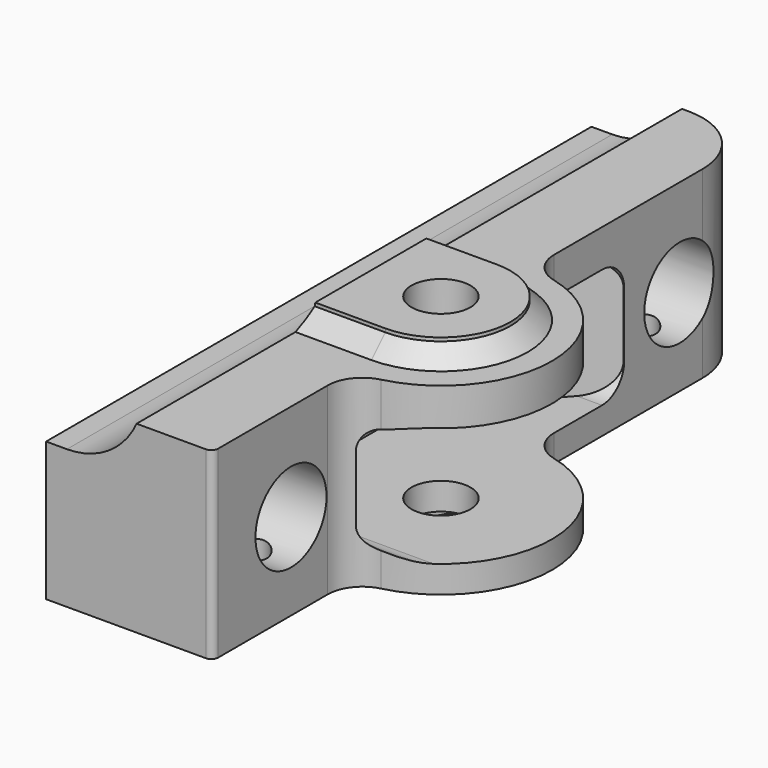
from build123d import *

# Parameters (mm, degrees)
SKETCH_R          = 4.25
PAD_DEPTH         = 28.5
PAD_DEPTH_BACK    = 5
FILLET_R          = 5
SKETCH002_R       = 6.4
POCKET_DEPTH      = 24.001
POCKET_DEPTH_BACK = -16.001
POCKET001_DEPTH   = 3
POCKET002_DEPTH   = 4
POCKET003_DEPTH   = 98.201
POCKET004_DEPTH   = 4
POCKET005_DEPTH   = 16
SKETCH028_R       = 22
POCKET006_DEPTH   = 25
SKETCH031_R       = 2.5
POCKET007_DEPTH   = 9
PAD001_DEPTH      = 17.2
SKETCH034_W       = 50
SKETCH034_H       = 25
POCKET008_DEPTH   = 2
SKETCH036_R       = 4.4
POCKET009_DEPTH   = 1.5
CHAMFER_SIZE      = 1.9
CHAMFER001_SIZE   = 2.5


with BuildPart() as part:
    # Sketch → Pad (new body, two sides)
    with BuildSketch(Plane.XY) as pad_sk:
        with BuildLine():
            ThreePointArc((0, -19), (16, -3), (0, 13))
            Line((0, 44.1), (0, 13))
            ThreePointArc((0, 44.1), (-2.928932, 51.171068), (-10, 54.1))
            Line((-24, 54.1), (-10, 54.1))
            Line((-24, 54.1), (-24, -44.1))
            Line((-24, -44.1), (-1, -44.1))
            ThreePointArc((-1, -44.1), (-0.292893, -43.807107), (0, -43.1))
            Line((0, -19), (0, -43.1))
        make_face()
        with Locations((0, -3)):
            Circle(SKETCH_R, mode=Mode.SUBTRACT)
    extrude(amount=PAD_DEPTH)
    extrude(pad_sk.sketch, amount=-PAD_DEPTH_BACK)

    # Fillet
    fillet_edges = [part.edges().sort_by_distance(p)[0] for p in [
        (0, 13, 11.75),
        (0, -19, 11.75),
    ]]
    fillet(fillet_edges, radius=FILLET_R)

    # Sketch002 → Pocket (cut, two sides)
    with BuildSketch(Plane.YZ) as pocket_sk:
        with Locations((-30, 11.5)):
            Circle(SKETCH002_R)
        with Locations((40, 11.5)):
            Circle(SKETCH002_R)
    extrude(amount=-POCKET_DEPTH, mode=Mode.SUBTRACT)
    extrude(pocket_sk.sketch, amount=-POCKET_DEPTH_BACK, mode=Mode.SUBTRACT)

    # Sketch013 → Pocket001 (cut)
    with BuildSketch(Plane.XY.offset(28.5)):
        with BuildLine():
            ThreePointArc((0, -13), (10, -3), (0, 7))
            Line((-40, 7), (0, 7))
            Line((-40, 7), (-40, 60))
            Line((-40, 60), (30, 60))
            Line((30, 60), (30, -60))
            Line((30, -60), (-40, -60))
            Line((-40, -60), (-40, -13))
            Line((-40, -13), (0, -13))
        make_face()
    extrude(amount=-POCKET001_DEPTH, mode=Mode.SUBTRACT)

    # Sketch024 → Pocket002 (cut)
    with BuildSketch(Plane(origin=(0, 0, -5), x_dir=(1, 0, 0), z_dir=(0, 0, -1))):
        with BuildLine():
            Line((0, 13), (-40, 13))
            Line((-40, 13), (-40, 65))
            Line((-40, 65), (24, 65))
            Line((24, 65), (24, -65))
            Line((24, -65), (-40, -65))
            Line((-40, -7), (-40, -65))
            Line((-40, -7), (0, -7))
            ThreePointArc((0, -7), (10, 3), (0, 13))
        make_face()
    extrude(amount=-POCKET002_DEPTH, mode=Mode.SUBTRACT)

    # Sketch029 → Pocket003 (cut, through all)
    with BuildSketch(Plane(origin=(0, 54.1, 0), x_dir=(-1, 0, 0), z_dir=(0, 1, 0))):
        with BuildLine():
            ThreePointArc((32, 30), (13.221825, 37.778175), (21, 19))
            Line((21, 19), (32, 19))
            Line((32, 30), (32, 19))
        make_face()
    extrude(amount=-POCKET003_DEPTH, mode=Mode.SUBTRACT)

    # Sketch027 → Pocket004 (cut)
    with BuildSketch(Plane(origin=(0, 0, -5), x_dir=(1, 0, 0), z_dir=(0, 0, -1))):
        Polygon((3.925982, 9.8), (-3.925982, 9.8), (-7.851964, 3), (-3.925982, -3.8), (3.925982, -3.8), (7.851964, 3), align=None)
    extrude(amount=-POCKET004_DEPTH, mode=Mode.SUBTRACT)

    # Sketch025 → Pocket005 (cut, symmetric)
    with BuildSketch(Plane.YZ):
        with BuildLine():
            Line((-16, 20.1), (26, 20.1))
            ThreePointArc((30, 16), (28.864001, 18.892928), (26, 20.1))
            Line((30, 16), (30, 7))
            ThreePointArc((26, 2.9), (28.864001, 4.107072), (30, 7))
            Line((26, 2.9), (-16, 2.9))
            ThreePointArc((-20, 7), (-18.864001, 4.107072), (-16, 2.9))
            Line((-20, 7), (-20, 16))
            ThreePointArc((-16, 20.1), (-18.864001, 18.892928), (-20, 16))
        make_face()
    extrude(amount=POCKET005_DEPTH, both=True, mode=Mode.SUBTRACT)

    # Sketch028 → Pocket006 (cut)
    with BuildSketch(Plane(origin=(0, 54.1, 0), x_dir=(-1, 0, 0), z_dir=(0, 1, 0))):
        with Locations((21, -20)):
            Circle(SKETCH028_R)
    extrude(amount=-POCKET006_DEPTH, mode=Mode.SUBTRACT)

    # Sketch031 → Pocket007 (cut)
    with BuildSketch(Plane(origin=(0, 0, -1), x_dir=(1, 0, 0), z_dir=(0, 0, -1))):
        with Locations((-6, 30)):
            Circle(SKETCH031_R)
        with Locations((-6, -40)):
            Circle(SKETCH031_R)
    extrude(amount=-POCKET007_DEPTH, mode=Mode.SUBTRACT)

    # Sketch032 → Pad001 (new body)
    with BuildSketch(Plane.XY.offset(2.9)):
        Polygon((0, -22), (-16, -11.5), (-16, -22), align=None)
        Polygon((-16, 12), (0, 30.1), (-16, 30.1), align=None)
    extrude(amount=PAD001_DEPTH)

    # Sketch034 → Pocket008 (cut)
    with BuildSketch(Plane(origin=(0, 0, -5), x_dir=(1, 0, 0), z_dir=(0, 0, -1))):
        with Locations((-10, 2.5)):
            Rectangle(SKETCH034_W, SKETCH034_H)
    extrude(amount=-POCKET008_DEPTH, mode=Mode.SUBTRACT)

    # Sketch036 → Pocket009 (cut)
    with BuildSketch(Plane(origin=(0, 0, -1), x_dir=(1, 0, 0), z_dir=(0, 0, -1))):
        with Locations((-6, 30)):
            Circle(SKETCH036_R)
        with Locations((-6, -40)):
            Circle(SKETCH036_R)
    extrude(amount=-POCKET009_DEPTH, mode=Mode.SUBTRACT)

    # Chamfer
    chamfer_edges = [part.edges().sort_by_distance(p)[0] for p in [
        (-12, -13, -1),
        (-12, 7, -1),
        (10, -3, -1),
    ]]
    chamfer(chamfer_edges, length=CHAMFER_SIZE)

    # Chamfer001
    chamfer001_edges = [part.edges().sort_by_distance(p)[0] for p in [
        (10, -3, 25.5),
        (-5.481285, -13, 25.5),
        (-5.481285, 7, 25.5),
    ]]
    chamfer(chamfer001_edges, length=CHAMFER001_SIZE)


solid = part.part
